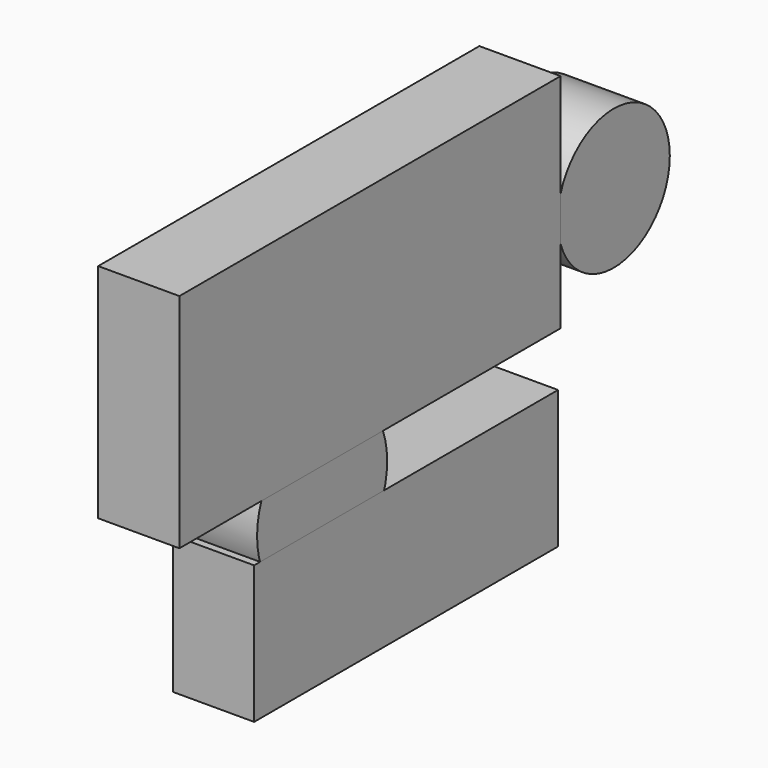
from build123d import *

# Parameters (mm, degrees)
F2_DEPTH = 25.4
F0_W     = 149.0184441209
F0_H     = 69.4482903928
F0_W_2   = 118.8251674175
F0_H_2   = 43.1051254272


with BuildPart() as f2:
    # F1 (on face) → F2 (new body)
    with BuildSketch(Plane.YZ):
        with BuildLine():
            ThreePointArc((85.9534442425, 1.4117961428), (110.267993631, -13.2632626913), (128.6636017991, 8.3736563101))
            ThreePointArc((128.6636017991, 8.3736563101), (110.267993631, 30.0105753116), (85.9534442425, 15.3355164775))
            Line((85.9534442425, 15.3355164775), (85.9534442425, 1.4117961428))
        make_face()
        with BuildLine():
            ThreePointArc((18.160164574, -30.7839829475), (17.7419169601, -26.1909085431), (16.5009324926, -21.7489246279))
            Line((16.5009324926, -21.7489246279), (-31.0386664721, -21.7489246279))
            ThreePointArc((-31.0386664721, -21.7489246279), (-11.8619413942, -55.7947668973), (18.160164574, -30.7839829475))
        make_face()
        with BuildLine():
            Line((85.9534442425, 1.4117961428), (85.9534442425, 15.3355164775))
            ThreePointArc((85.9534442425, 15.3355164775), (84.8186440038, 8.3736563101), (85.9534442425, 1.4117961428))
        make_face()
        with BuildLine():
            Line((-31.0386664721, -21.7489246279), (16.5009324926, -21.7489246279))
            ThreePointArc((16.5009324926, -21.7489246279), (-7.2688669898, -5.3549513837), (-31.0386664721, -21.7489246279))
        make_face()
        with BuildLine():
            ThreePointArc((85.9534442425, 1.4117961428), (84.8186440038, 8.3736563101), (85.9534442425, 15.3355164775))
            Line((85.9534442425, 15.3355164775), (85.9534442425, 47.6993657649))
            Line((85.9534442425, 47.6993657649), (-63.0649998784, 47.6993657649))
            Line((-63.0649998784, 47.6993657649), (-63.0649998784, -21.7489246279))
            Line((-63.0649998784, -21.7489246279), (-31.0386664721, -21.7489246279))
            ThreePointArc((-31.0386664721, -21.7489246279), (-7.2688669898, -5.3549513837), (16.5009324926, -21.7489246279))
            Line((16.5009324926, -21.7489246279), (85.9534442425, -21.7489246279))
            Line((85.9534442425, -21.7489246279), (85.9534442425, 1.4117961428))
        make_face()
    extrude(amount=F2_DEPTH)


with BuildPart() as f2b:
    # F0 (on Right) → F2, piece 2 (new body)
    with BuildSketch(Plane.YZ):
        with Locations((11.444222182, 12.9752205685)):
            Rectangle(F0_W, F0_H)
    extrude(amount=F2_DEPTH)


with BuildPart() as f2c:
    # F0 (on Right) → F2, piece 3 (new body)
    with BuildSketch(Plane.YZ):
        with Locations((25.5668833852, -59.8782151937)):
            Rectangle(F0_W_2, F0_H_2)
    extrude(amount=F2_DEPTH)


solid = Compound([f2.part, f2b.part, f2c.part])
